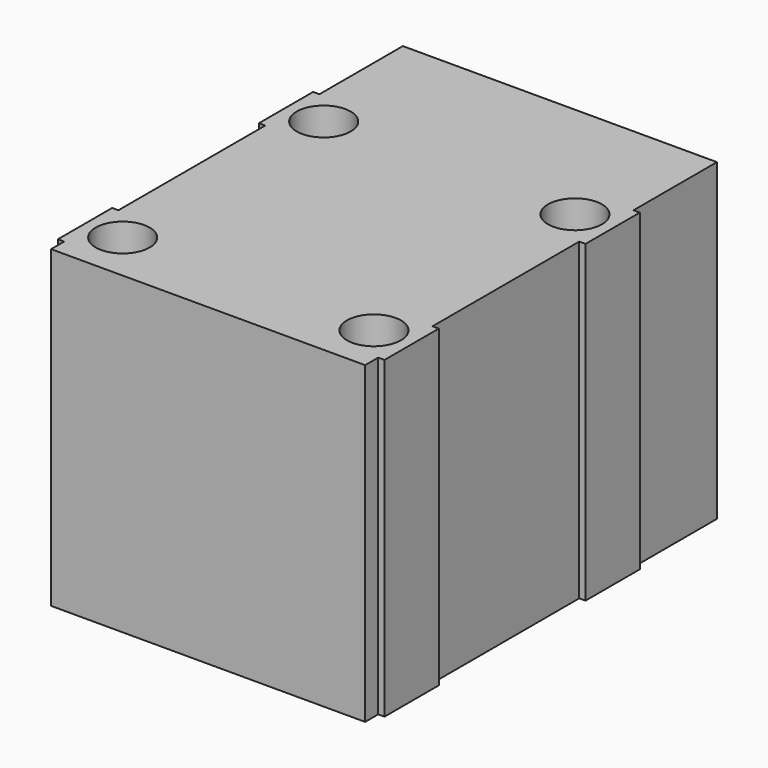
from build123d import *

# Parameters (mm, degrees)
F0_W      = 25
F0_H      = 25
F1_DEPTH  = 30
F2_W      = 25
F2_H      = 25
F3_DEPTH  = 5
F5_DEPTH  = 2.5
F7_DEPTH  = 25
F9_W      = 13
F9_H      = 5.4
F10_DEPTH = 12.5
F8_R      = 2.15
F11_DEPTH = 12.5


with BuildPart() as f1:
    # F0 (on Front) → F1 (new body)
    with BuildSketch(Plane.XZ):
        Rectangle(F0_W, F0_H)
    extrude(amount=F1_DEPTH)

    # F2 (on Front) → F3 (join)
    with BuildSketch(Plane.XZ):
        Rectangle(F2_W, F2_H)
    extrude(amount=-F3_DEPTH)

    # F4 (on Front) → F5 (cut)
    with BuildSketch(Plane.XZ):
        with BuildLine():
            ThreePointArc((-9, 0), (0, -9), (9, 0))
            ThreePointArc((9, 0), (0, 9), (-9, 0))
        make_face()
        with BuildLine():
            Line((9, -12.5), (9, 0))
            ThreePointArc((9, 0), (0, -9), (-9, 0))
            Line((-9, 0), (-9, -12.5))
            Line((-9, -12.5), (9, -12.5))
        make_face()
    extrude(amount=-F5_DEPTH, mode=Mode.SUBTRACT)

    # F6 (on Front) → F7 (cut)
    with BuildSketch(Plane.XZ):
        Polygon((0.55, 0.5), (0.55, 5.3), (-0.55, 5.3), (-0.55, 0.5), (-5.55, 0.5), (-5.55, -12.5), (5.55, -12.5), (5.55, 0.5), align=None)
    extrude(amount=-F7_DEPTH, mode=Mode.SUBTRACT)

    # F9 (on Top) → F10 (join, symmetric)
    with BuildSketch(Plane.XY):
        with Locations((-6.5, -6)):
            Rectangle(F9_W, F9_H)
        with Locations((6.5, -6)):
            Rectangle(F9_W, F9_H)
        with Locations((-6.5, -26)):
            Rectangle(F9_W, F9_H)
        with Locations((6.5, -26)):
            Rectangle(F9_W, F9_H)
    extrude(amount=F10_DEPTH, both=True)

    # F8 (on Top) → F11 (cut, symmetric)
    with BuildSketch(Plane.XY):
        with Locations((-10, -6)):
            Circle(F8_R)
        with Locations((-10, -26)):
            Circle(F8_R)
        with Locations((10, -6)):
            Circle(F8_R)
        with Locations((10, -26)):
            Circle(F8_R)
    extrude(amount=F11_DEPTH, both=True, mode=Mode.SUBTRACT)


solid = f1.part
